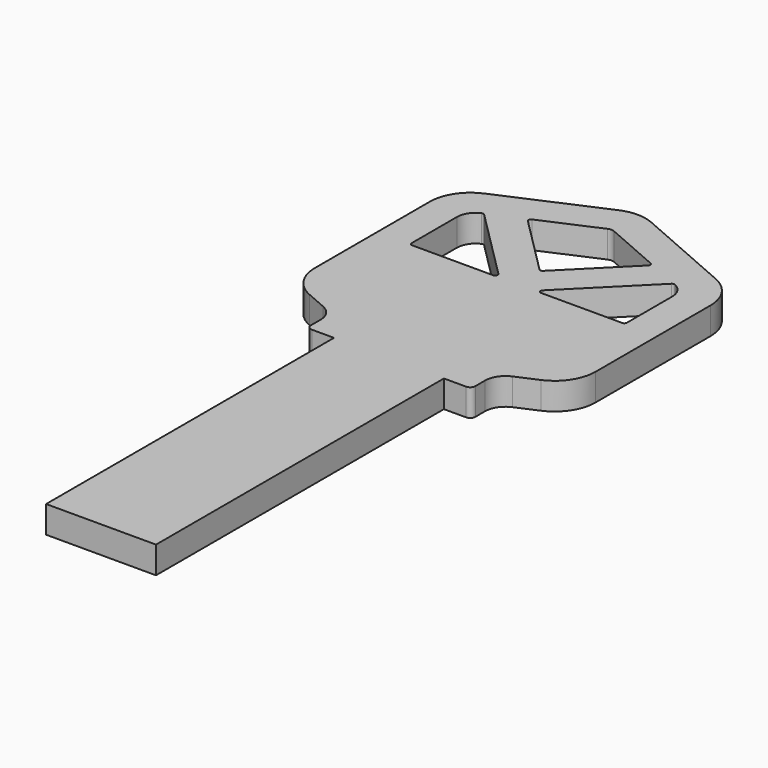
from build123d import *

# Parameters (mm, degrees)
F1_DEPTH = 1.05
F2_R     = 0.396875
F4_DEPTH = 2.101


with BuildPart() as f1:
    # F0 (on Top) → F1 (new body, symmetric)
    with BuildSketch(Plane.XY):
        with BuildLine():
            ThreePointArc((1.2711994223, -0.5554208485), (0, -0.2898326497), (-1.2711994223, -0.5554208485))
            Line((-1.2711994223, -0.5554208485), (-8.9961994223, -3.930678876))
            ThreePointArc((-8.9961994223, -3.930678876), (-10.381753956, -5.1016191022), (-10.9, -6.8400906772))
            Line((-10.9, -6.8400906772), (-10.9, -17.9896228211))
            ThreePointArc((-10.9, -17.9896228211), (-10.381753956, -19.7280943961), (-8.9961994223, -20.8990346223))
            Line((-8.9961994223, -20.8990346223), (-7.3400002889, -21.6226720877))
            ThreePointArc((-7.3400002889, -21.6226720877), (-6.647223022, -22.2081422008), (-6.3881, -23.0773779883))
            Line((-6.3881, -23.0773779883), (-6.3881, -24.4198326497))
            Line((-6.3881, -24.4198326497), (-4.2672, -24.4198326497))
            Line((-4.2672, -24.4198326497), (-4.2672, -52.3598326497))
            Line((-4.2672, -52.3598326497), (4.2672, -52.3598326497))
            Line((4.2672, -52.3598326497), (4.2672, -24.4198326497))
            Line((4.2672, -24.4198326497), (6.3881, -24.4198326497))
            Line((6.3881, -24.4198326497), (6.3881, -23.0773779883))
            ThreePointArc((6.3881, -23.0773779883), (6.647223022, -22.2081422008), (7.3400002889, -21.6226720877))
            Line((7.3400002889, -21.6226720877), (8.9961994223, -20.8990346223))
            ThreePointArc((8.9961994223, -20.8990346223), (10.381753956, -19.7280943961), (10.9, -17.9896228211))
            Line((10.9, -17.9896228211), (10.9, -6.8400906772))
            ThreePointArc((10.9, -6.8400906772), (10.381753956, -5.1016191022), (8.9961994223, -3.930678876))
            Line((8.9961994223, -3.930678876), (1.2711994223, -0.5554208485))
        make_face()
    extrude(amount=F1_DEPTH, both=True)

    # F2
    f2_edges = [f1.edges().sort_by_distance(p)[0] for p in [
        (6.3881, -24.419833, 0),
        (-6.3881, -24.419833, 0),
    ]]
    fillet(f2_edges, radius=F2_R)

    # F3 (on face) → F4 (cut, through all)
    with BuildSketch(Plane.XY.offset(1.05)):
        with BuildLine():
            ThreePointArc((0.2542398845, -2.8829502894), (0, -2.8298326497), (-0.2542398845, -2.8829502894))
            Line((-0.2542398845, -2.8829502894), (-4.6036733755, -4.7833335005))
            ThreePointArc((-4.6036733755, -4.7833335005), (-4.7192112161, -4.9283315767), (-4.6645399135, -5.10548824))
            Line((-4.6645399135, -5.10548824), (-0.1403165019, -9.6297116516))
            ThreePointArc((-0.1403165019, -9.6297116516), (0, -9.6878326497), (0.1403165019, -9.6297116516))
            Line((0.1403165019, -9.6297116516), (4.6645399135, -5.10548824))
            ThreePointArc((4.6645399135, -5.10548824), (4.7192112161, -4.9283315767), (4.6036733755, -4.7833335005))
            Line((4.6036733755, -4.7833335005), (0.2542398845, -2.8829502894))
        make_face()
        with BuildLine():
            ThreePointArc((-7.4941261238, -6.0462492082), (-8.1242947921, -6.5788084291), (-8.36, -7.3694884715))
            Line((-8.36, -7.3694884715), (-8.36, -11.7753951497))
            ThreePointArc((-8.36, -11.7753951497), (-8.3018790019, -11.9157116516), (-8.1615625, -11.9738326497))
            Line((-8.1615625, -11.9738326497), (-1.867368456, -11.9738326497))
            ThreePointArc((-1.867368456, -11.9738326497), (-1.6840361113, -11.8513338933), (-1.7270519541, -11.6350786478))
            Line((-1.7270519541, -11.6350786478), (-7.274359658, -6.0877709439))
            ThreePointArc((-7.274359658, -6.0877709439), (-7.3778359984, -6.0330996413), (-7.4941261238, -6.0462492082))
        make_face()
        with BuildLine():
            Line((8.36, -11.7753951497), (8.36, -7.3694884715))
            ThreePointArc((8.36, -7.3694884715), (8.1242947921, -6.5788084291), (7.4941261238, -6.0462492082))
            ThreePointArc((7.4941261238, -6.0462492082), (7.3778359984, -6.0330996413), (7.274359658, -6.0877709439))
            Line((7.274359658, -6.0877709439), (1.7270519541, -11.6350786478))
            ThreePointArc((1.7270519541, -11.6350786478), (1.6840361113, -11.8513338933), (1.867368456, -11.9738326497))
            Line((1.867368456, -11.9738326497), (8.1615625, -11.9738326497))
            ThreePointArc((8.1615625, -11.9738326497), (8.3018790019, -11.9157116516), (8.36, -11.7753951497))
        make_face()
    extrude(amount=-F4_DEPTH, mode=Mode.SUBTRACT)


solid = f1.part
